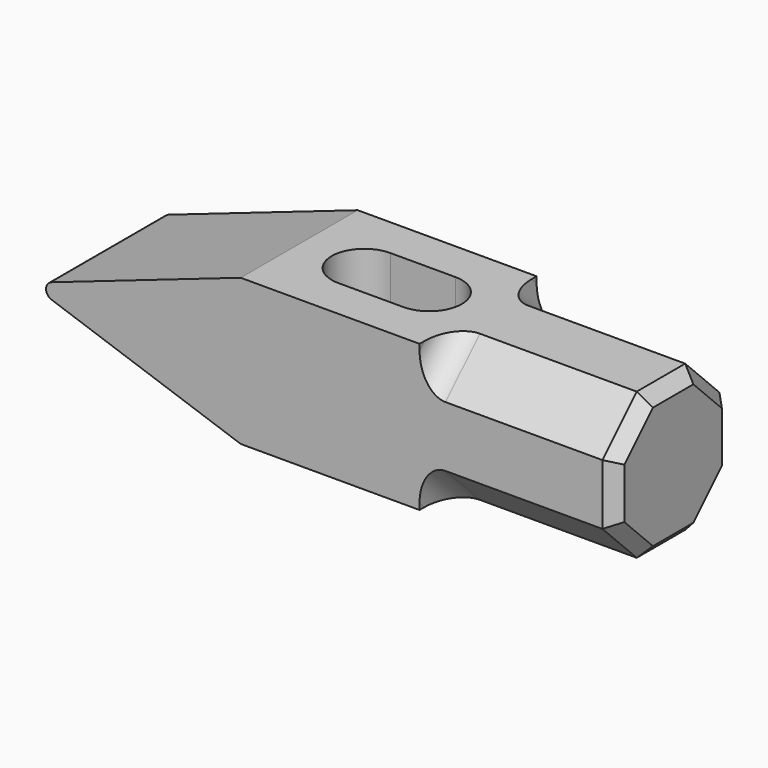
from build123d import *

# Parameters (mm, degrees)
F1_DEPTH = 14.2875
F3_DEPTH = 28.576
F5_DEPTH = 38.1
F6_R     = 5.08
F7_SIZE  = 2.38125


with BuildPart() as f1:
    # F0 (on Front) → F1 (new body, symmetric)
    with BuildSketch(Plane.XZ):
        with BuildLine():
            Line((76.2, 14.2875), (41.275, 14.2875))
            Line((41.275, 14.2875), (4.333811, 1.500165))
            ThreePointArc((4.333811, 1.500165), (3.265599, 0), (4.333811, -1.500165))
            Line((4.333811, -1.500165), (41.275, -14.2875))
            Line((41.275, -14.2875), (76.2, -14.2875))
            Line((76.2, -14.2875), (114.3, -14.2875))
            Line((114.3, -14.2875), (114.3, 14.2875))
            Line((114.3, 14.2875), (76.2, 14.2875))
        make_face()
    extrude(amount=F1_DEPTH, both=True)

    # F2 (on face) → F3 (cut, through all)
    with BuildSketch(Plane.XY.offset(14.2875)):
        with BuildLine():
            Line((66.675, 6.35), (53.975, 6.35))
            ThreePointArc((53.975, 6.35), (47.625, 0), (53.975, -6.35))
            Line((53.975, -6.35), (66.675, -6.35))
            ThreePointArc((66.675, -6.35), (73.025, 0), (66.675, 6.35))
        make_face()
    extrude(amount=-F3_DEPTH, mode=Mode.SUBTRACT)

    # F4 (on face) → F5 (cut)
    with BuildSketch(Plane.YZ.offset(114.3)):
        Polygon((5.918076, 14.2875), (14.2875, 5.918076), (14.2875, 14.2875), align=None)
        Polygon((-14.2875, 5.918076), (-5.918076, 14.2875), (-14.2875, 14.2875), align=None)
        Polygon((-14.2875, -14.2875), (-5.918076, -14.2875), (-14.2875, -5.918076), align=None)
        Polygon((5.918076, -14.2875), (14.2875, -14.2875), (14.2875, -5.918076), align=None)
    extrude(amount=-F5_DEPTH, mode=Mode.SUBTRACT)

    # F6
    f6_edges = [f1.edges().sort_by_distance(p)[0] for p in [
        (76.2, -10.102788, 10.102788),
        (76.2, -10.102788, -10.102788),
        (76.2, 10.102788, -10.102788),
        (76.2, 10.102788, 10.102788),
    ]]
    fillet(f6_edges, radius=F6_R)

    # F7
    f7_edges = [f1.edges().sort_by_distance(p)[0] for p in [
        (114.3, 10.102788, -10.102788),
        (114.3, 0, -14.2875),
        (114.3, -10.102788, -10.102788),
        (114.3, -14.2875, 0),
        (114.3, -10.102788, 10.102788),
        (114.3, 0, 14.2875),
        (114.3, 10.102788, 10.102788),
        (114.3, 14.2875, 0),
    ]]
    chamfer(f7_edges, length=F7_SIZE)


solid = f1.part
